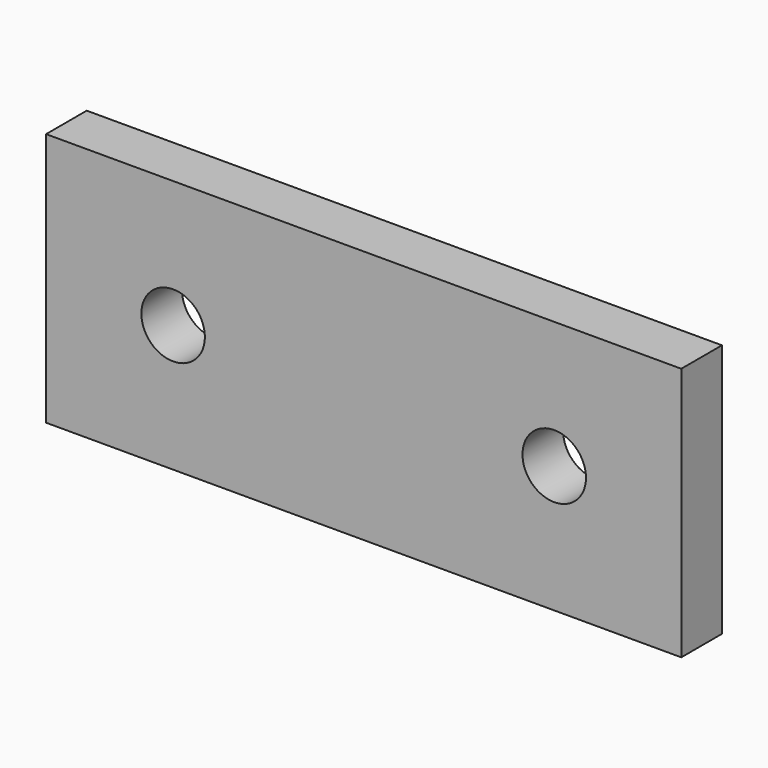
from build123d import *

# Parameters (mm, degrees)
F0_W     = 100
F0_H     = 40
F0_R     = 5
F1_DEPTH = 4


with BuildPart() as f1:
    # F0 (on Front) → F1 (new body, symmetric)
    with BuildSketch(Plane.XZ):
        Rectangle(F0_W, F0_H)
        with Locations((-30, 0)):
            Circle(F0_R, mode=Mode.SUBTRACT)
        with Locations((30, 0)):
            Circle(F0_R, mode=Mode.SUBTRACT)
    extrude(amount=F1_DEPTH, both=True)


solid = f1.part
